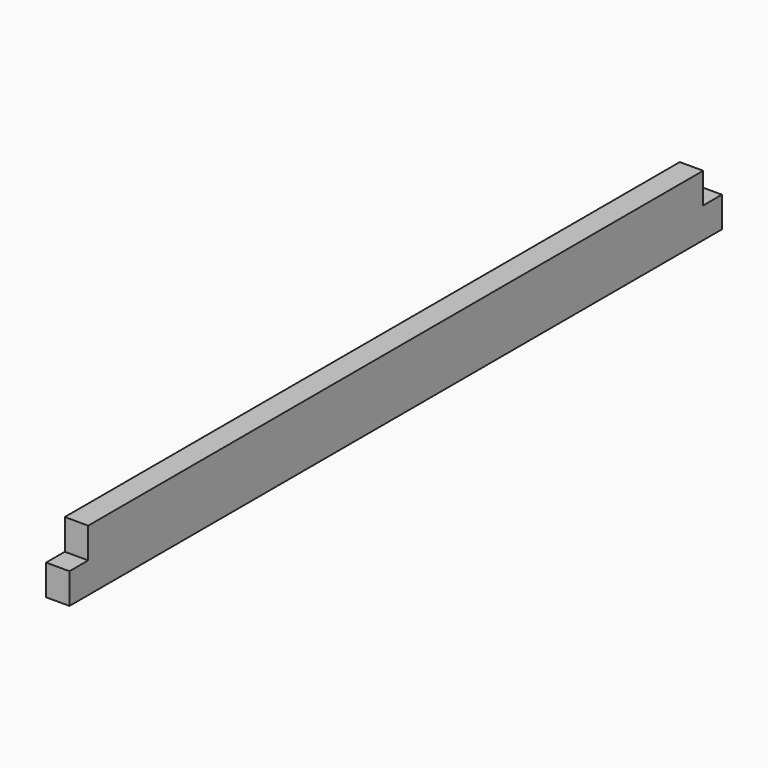
from build123d import *

# Parameters (mm, degrees)
F0_W     = 592.582
F0_H     = 44.45
F1_DEPTH = 17.018
F2_W     = 17.018
F2_H     = 22.225
F3_DEPTH = 17.019


with BuildPart() as f1:
    # F0 (on Right) → F1 (new body)
    with BuildSketch(Plane.YZ):
        Rectangle(F0_W, F0_H)
    extrude(amount=F1_DEPTH)

    # F2 (on face) → F3 (cut, through all)
    with BuildSketch(Plane.YZ.offset(17.018)):
        with Locations((-287.782, 11.1125)):
            Rectangle(F2_W, F2_H)
        with Locations((287.782, 11.1125)):
            Rectangle(F2_W, F2_H)
    extrude(amount=-F3_DEPTH, mode=Mode.SUBTRACT)


solid = f1.part
